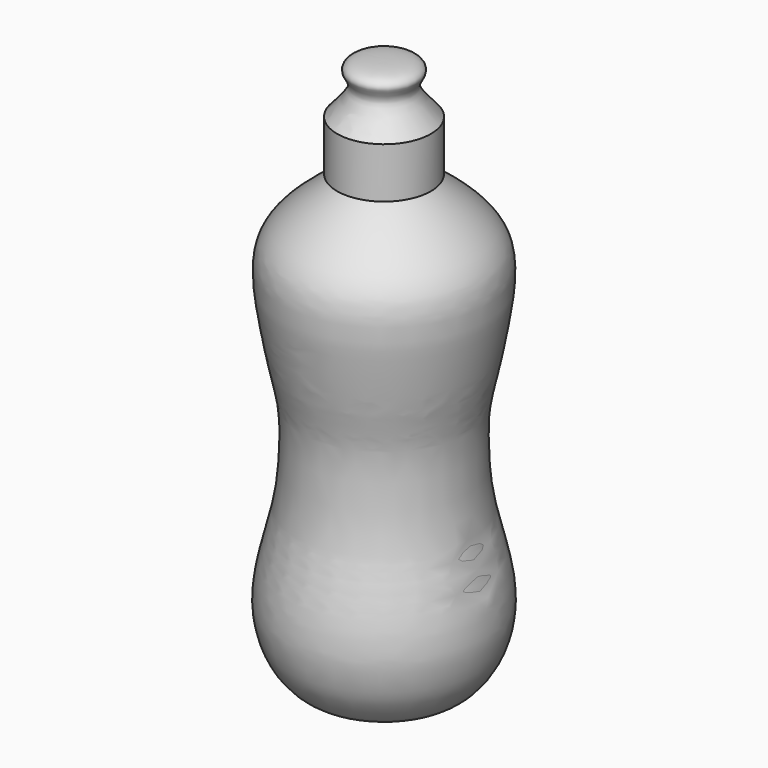
from build123d import *


with BuildPart() as f2:
    # F0 (on Front) → F2 (revolve)
    with BuildSketch(Plane.XZ):
        with BuildLine():
            Line((0, 75.1699134707), (0, 75.5153670907))
            add(Edge.make_bspline(
                [(-4.364865832, -112.6372516155), (-8.4721121585, -112.204313173), (-16.3974377565, -111.3689169371), (-27.1866457138, -109.1542732375), (-35.9535011931, -98.912405473), (-40.2899335599, -84.0859232007), (-38.4536344348, -67.5898153625), (-32.3038969463, -47.0061647628), (-31.2644625526, -30.6555641524), (-31.1117030263, -15.4991619831), (-34.8098183572, -1.1843571543), (-39.1129888522, 22.479172264), (-39.4980676963, 33.3597819242), (-36.9050011682, 47.1088066127), (-12.3545363676, 63.9958151723), (-10.8328137956, 62.6767358328), (-10.0175801919, 73.7495937213), (-11.235041967, 73.9966260674), (-10.1081854715, 75.8991420477), (-4.3290922086, 75.679728655), (0, 75.5153670907)],
                knots=[0, 0, 0, 0, 0.0571719559, 0.1103187707, 0.1685558332, 0.2319447454, 0.2987238107, 0.3746196924, 0.4413530011, 0.5035127096, 0.5678423164, 0.6476943953, 0.701068412, 0.7630380156, 0.8487354435, 0.8638421469, 0.9155831847, 0.9298688125, 0.9474650497, 1, 1, 1, 1], degree=3))
            Line((-4.364865832, -112.6372516155), (0, -112.6372516155))
            Line((0, -112.6372516155), (0, -111.788623035))
            add(Edge.make_bspline(
                [(0, -111.788623035), (-1.2458982544, -111.8579278537), (-4.5686724934, -112.0427617804), (-16.6862007398, -110.3732101733), (-26.7776251829, -108.7343008938), (-35.3693769485, -98.4558804788), (-39.7119619255, -84.0346358257), (-37.5688329614, -67.6404940532), (-31.6808497246, -46.9633034973), (-30.6117959434, -30.6185045067), (-30.4275053036, -15.4419484693), (-34.3061306131, -1.0077356027), (-38.2457976808, 22.6166243737), (-38.9227492603, 33.3144643802), (-36.6812103458, 46.8983428217), (-12.2802609443, 63.3589621256), (-11.2093903181, 62.780563359), (-10.60770654, 63.6014290432), (-10.1376472367, 67.8765791846), (-9.7503589855, 73.5797902785), (-10.8684300715, 74.0809702516), (-9.8212019594, 75.4726665313), (-4.2779909986, 75.3017888637), (0, 75.1699134707)],
                knots=[0, 0, 0, 0, 0.0322252909, 0.0859439093, 0.1353610342, 0.1897011184, 0.2487894292, 0.3115624231, 0.3832246677, 0.4461453549, 0.5047854804, 0.5657454601, 0.6408940295, 0.6908693156, 0.7486187908, 0.8291662829, 0.8414294866, 0.8539340817, 0.886941487, 0.92348109, 0.9365249936, 0.9510129584, 1, 1, 1, 1], degree=3))
        make_face()
    revolve(axis=Axis((0, 0, 0), (0, 0, -1)))


with BuildPart() as f3:
    # F1 (on Front) → F3 (revolve)
    with BuildSketch(Plane.XZ):
        with BuildLine():
            add(Edge.make_bspline(
                [(0, -7.0740636438), (-1.019486986, -7.2381366895), (-3.3624876915, -7.615211892), (-8.3010782106, -4.2680403772), (-10.6600322424, -1.5429587328), (-12.0262743346, 6.6457793413), (-9.3733871026, 4.5585767323), (-8.3951980976, 7.3297436605), (-11.5074384351, 6.3516921664), (-11.1259786631, 9.0763507423), (-9.2075705673, 8.1163783362), (-8.3084952142, 10.1734660944), (-10.4929074553, 9.8642171718), (-10.9742458855, 10.8104440714), (-10.4698912146, 11.3816190506), (-14.5892847756, 60.3048329442), (-9.0136891275, 58.5205787929), (-8.7894931224, 62.0709814079), (-10.1740762635, 62.0149018775), (-9.6476594132, 63.0139773274), (-9.3406345695, 63.5966733098)],
                knots=[0, 0, 0, 0, 0.0576141227, 0.1324096648, 0.19939393, 0.2786038333, 0.3178031719, 0.3566364503, 0.4016450117, 0.4401157113, 0.4800937162, 0.5153745808, 0.5558474457, 0.5834801066, 0.6145419385, 0.8319843143, 0.8835719979, 0.933306391, 0.9611019388, 1, 1, 1, 1], degree=3))
            Line((0, -7.0740636438), (0, 63.5966733098))
            Line((0, 63.5966733098), (-9.3406345695, 63.5966733098))
        make_face()
        Polygon((-7.7217835933, 75.8402124047), (-9.3406345695, 63.5966733098), (0, 63.5966733098), (0, 75.8402124047), align=None)
    revolve(axis=Axis((0, 0, 28.261304833), (0, 0, 1)))


with BuildPart() as f5:
    # F4 (on Front) → F5 (revolve)
    with BuildSketch(Plane.XZ):
        with BuildLine():
            Line((-15.3778316453, 62.72546947), (-15.3778316453, 80.3710967302))
            add(Edge.make_bspline(
                [(-15.3778316453, 80.3710967302), (-13.9224590163, 82.3330503082), (-11.1548840515, 86.0639529623), (-7.8876768191, 91.4943797051), (-9.9279324434, 95.9710816973), (-11.6186209755, 98.0314671677), (-9.597891639, 99.8837222217), (-3.9661422869, 99.9450832859), (0, 99.988296628)],
                knots=[0, 0, 0, 0, 0.2041564236, 0.388229238, 0.549695013, 0.662058838, 0.7620059684, 1, 1, 1, 1], degree=3))
            Line((0, 99.988296628), (0, 101.4669835567))
            add(Edge.make_bspline(
                [(-17.9408825934, 82.0469334722), (-16.2498516561, 83.9598256493), (-13.1609384262, 87.4540006068), (-10.0563806445, 92.1179671652), (-11.5142926215, 95.4426122186), (-13.2310849948, 97.956517634), (-10.5772634183, 101.3688784417), (-4.1705137697, 101.4283016485), (0, 101.4669835567)],
                knots=[0, 0, 0, 0, 0.2031879057, 0.3711521748, 0.5055952837, 0.6265945051, 0.7569293568, 1, 1, 1, 1], degree=3))
            Line((-17.9408825934, 82.0469334722), (-17.9408825934, 62.72546947))
            Line((-17.9408825934, 62.72546947), (-15.3778316453, 62.72546947))
        make_face()
    revolve(axis=Axis((0, 0, 0), (0, 0, -1)))


solid = Compound([f2.part, f3.part, f5.part])
